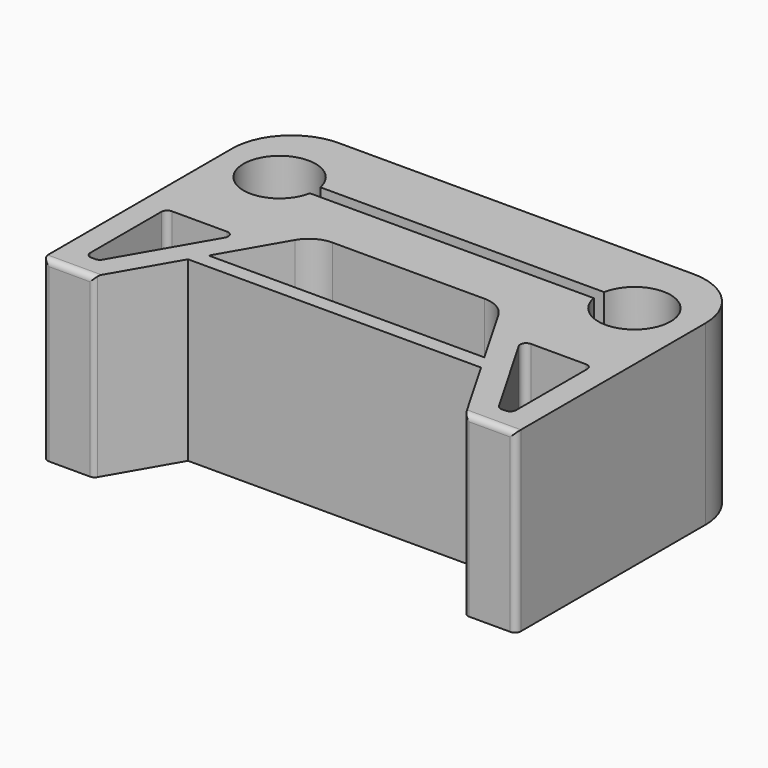
from build123d import *

# Parameters (mm, degrees)
F0_W      = 80
F0_H      = 50
F1_DEPTH  = 30
F3_DEPTH  = 15
F4_R      = 4
F5_DEPTH  = 12
F6_R      = 10
F8_DEPTH  = 30
F9_R      = 5
F11_DEPTH = 32
F12_R     = 1
F13_R     = 1
F14_W     = 7.6178369459
F14_H     = 2.2
F15_DEPTH = 20
F17_DEPTH = 30


with BuildPart() as f1:
    # F0 (on Top) → F1 (new body)
    with BuildSketch(Plane.XY):
        Rectangle(F0_W, F0_H)
    extrude(amount=F1_DEPTH)

    # F2 (on face) → F3 (cut)
    with BuildSketch(Plane.XY.offset(30)):
        with BuildLine():
            ThreePointArc((-26.0503164684, 11.4), (-34.1, 12.5), (-26.0503164684, 13.6))
            Line((-26.0503164684, 13.6), (-24, 13.6))
            ThreePointArc((-24, 13.6), (-36.1, 12.5), (-24, 11.4))
            Line((-24, 11.4), (-26.0503164684, 11.4))
        make_face()
        with BuildLine():
            ThreePointArc((-26.0503164684, 13.6), (-25.9377529322, 13.0551114844), (-25.9, 12.5))
            ThreePointArc((-25.9, 12.5), (-25.9377529322, 11.9448885156), (-26.0503164684, 11.4))
            Line((-26.0503164684, 11.4), (-24, 11.4))
            ThreePointArc((-24, 11.4), (-23.9250514405, 11.9477319491), (-23.9, 12.5))
            ThreePointArc((-23.9, 12.5), (-23.9250514405, 13.0522680509), (-24, 13.6))
            Line((-24, 13.6), (-26.0503164684, 13.6))
        make_face()
        with BuildLine():
            Line((-30, 13.6), (-26.0503164684, 13.6))
            ThreePointArc((-26.0503164684, 13.6), (-34.1, 12.5), (-26.0503164684, 11.4))
            Line((-26.0503164684, 11.4), (-30, 11.4))
            Line((-30, 11.4), (-30, 13.6))
        make_face()
        with BuildLine():
            ThreePointArc((-26.0503164684, 11.4), (-25.9377529322, 11.9448885156), (-25.9, 12.5))
            ThreePointArc((-25.9, 12.5), (-25.9377529322, 13.0551114844), (-26.0503164684, 13.6))
            Line((-26.0503164684, 13.6), (-30, 13.6))
            Line((-30, 13.6), (-30, 11.4))
            Line((-30, 11.4), (-26.0503164684, 11.4))
        make_face()
        with BuildLine():
            Line((-3.8089184729, 13.6), (-24, 13.6))
            ThreePointArc((-24, 13.6), (-23.9250514405, 13.0522680509), (-23.9, 12.5))
            ThreePointArc((-23.9, 12.5), (-23.9250514405, 11.9477319491), (-24, 11.4))
            Line((-24, 11.4), (-3.8089184729, 11.4))
            Line((-3.8089184729, 11.4), (-3.8089184729, 13.6))
        make_face()
        with BuildLine():
            ThreePointArc((36.1, 12.5), (30.5522680509, 18.5749485595), (24, 13.6))
            Line((24, 13.6), (26.0503164684, 13.6))
            ThreePointArc((26.0503164684, 13.6), (30.5551114844, 16.5622470678), (34.1, 12.5))
            ThreePointArc((34.1, 12.5), (30.5551114844, 8.4377529322), (26.0503164684, 11.4))
            Line((26.0503164684, 11.4), (24, 11.4))
            ThreePointArc((24, 11.4), (30.5522680509, 6.4250514405), (36.1, 12.5))
        make_face()
        with BuildLine():
            Line((26.0503164684, 13.6), (24, 13.6))
            ThreePointArc((24, 13.6), (23.9, 12.5), (24, 11.4))
            Line((24, 11.4), (26.0503164684, 11.4))
            ThreePointArc((26.0503164684, 11.4), (25.9, 12.5), (26.0503164684, 13.6))
        make_face()
        with BuildLine():
            Line((30, 13.6), (26.0503164684, 13.6))
            ThreePointArc((26.0503164684, 13.6), (25.9, 12.5), (26.0503164684, 11.4))
            Line((26.0503164684, 11.4), (30, 11.4))
            Line((30, 11.4), (30, 13.6))
        make_face()
        with BuildLine():
            ThreePointArc((34.1, 12.5), (30.5551114844, 16.5622470678), (26.0503164684, 13.6))
            Line((26.0503164684, 13.6), (30, 13.6))
            Line((30, 13.6), (30, 11.4))
            Line((30, 11.4), (26.0503164684, 11.4))
            ThreePointArc((26.0503164684, 11.4), (30.5551114844, 8.4377529322), (34.1, 12.5))
        make_face()
        with BuildLine():
            Line((24, 13.6), (3.8089184729, 13.6))
            Line((3.8089184729, 13.6), (3.8089184729, 11.4))
            Line((3.8089184729, 11.4), (24, 11.4))
            ThreePointArc((24, 11.4), (23.9, 12.5), (24, 13.6))
        make_face()
    extrude(amount=-F3_DEPTH, mode=Mode.SUBTRACT)

    # F4 (on face) → F5 (cut)
    with BuildSketch(Plane.XY.offset(15)):
        with Locations((-30, 12.5)):
            Circle(F4_R)
        with Locations((30, 12.5)):
            Circle(F4_R)
    extrude(amount=-F5_DEPTH, mode=Mode.SUBTRACT)

    # F6
    f6_edges = [f1.edges().sort_by_distance(p)[0] for p in [
        (-40, 25, 15),
        (40, 25, 15),
    ]]
    fillet(f6_edges, radius=F6_R)

    # F7 (on face) → F8 (cut)
    with BuildSketch(Plane.XY.offset(30)):
        Polygon((15.7377014204, 2.2584984545), (-15.7377014204, 2.2584984545), (-31.4754028408, -25), (31.4754028408, -25), align=None)
    extrude(amount=-F8_DEPTH, mode=Mode.SUBTRACT)

    # F9
    f9_edges = [f1.edges().sort_by_distance(p)[0] for p in [
        (15.737701, 2.258498, 15),
        (-15.737701, 2.258498, 15),
    ]]
    fillet(f9_edges, radius=F9_R)

    # F10 (on face) → F11 (cut)
    with BuildSketch(Plane.XY.offset(30)):
        Polygon((-23.9627902868, -4), (-36, -4), (-36, -21), (-33.7840610196, -21), align=None)
        Polygon((36, -4), (23.9627902868, -4), (33.7840610196, -21), (36, -21), align=None)
    extrude(amount=-F11_DEPTH, mode=Mode.SUBTRACT)

    # F12
    f12_edges = [f1.edges().sort_by_distance(p)[0] for p in [
        (-23.96279, -4, 15),
        (-36, -21, 15),
        (-36, -4, 15),
        (-33.784061, -21, 15),
        (23.96279, -4, 15),
        (36, -4, 15),
        (36, -21, 15),
        (33.784061, -21, 15),
    ]]
    fillet(f12_edges, radius=F12_R)

    # F13
    f13_edges = [f1.edges().sort_by_distance(p)[0] for p in [
        (-35.737701, -25, 30),
        (35.737701, -25, 30),
        (-40, -25, 15),
        (-31.475403, -25, 15),
        (31.475403, -25, 15),
        (40, -25, 15),
    ]]
    fillet(f13_edges, radius=F13_R)

    # F14 (on face) → F15 (cut)
    with BuildSketch(Plane.XY.offset(30)):
        with Locations((0, 12.5)):
            Rectangle(F14_W, F14_H)
    extrude(amount=-F15_DEPTH, mode=Mode.SUBTRACT)

    # F16 (on face) → F17 (join)
    with BuildSketch(Plane.XY.offset(30)):
        Polygon((23.3065289789, -10.8510954306), (-23.3065289789, -10.8510954306), (-24.7726006861, -13.390406115), (24.7726006861, -13.390406115), align=None)
    extrude(amount=-F17_DEPTH)


solid = f1.part
